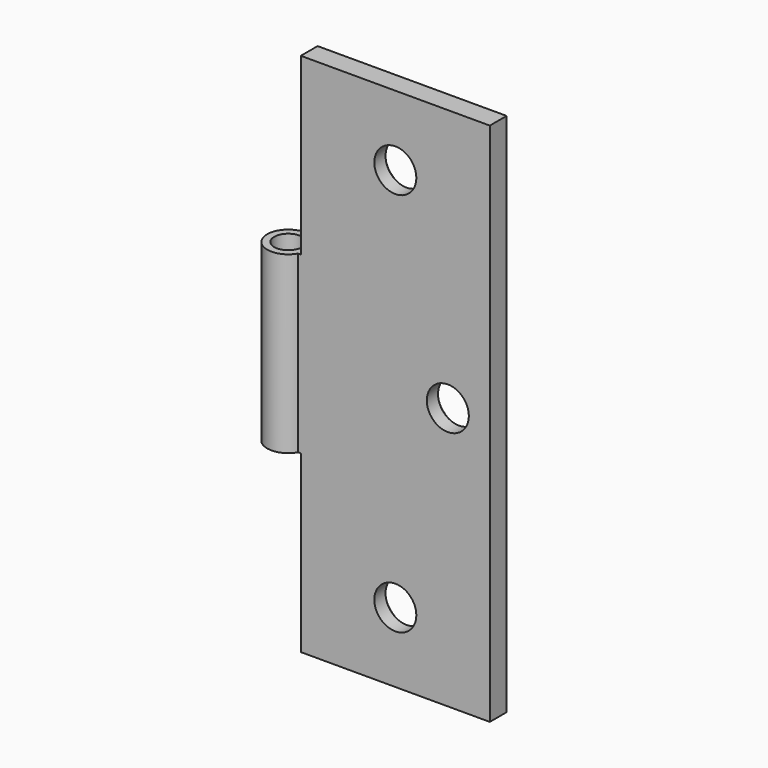
from build123d import *

# Parameters (mm, degrees)
F0_R           = 2
F1_DEPTH       = 75
F2_W           = 3
F2_H           = 25
F3_DEPTH       = 12.5
F5_D           = 6
F5_CSINK_D     = 8
F5_CSINK_ANGLE = 90


with BuildPart() as f1:
    # F0 (on Top) → F1 (new body)
    with BuildSketch(Plane.XY):
        with BuildLine():
            Line((30, 1.5), (2.5980762114, 1.5))
            ThreePointArc((2.5980762114, 1.5), (-3, 0), (2.5980762114, -1.5))
            Line((2.5980762114, -1.5), (30, -1.5))
            Line((30, -1.5), (30, 1.5))
        make_face()
        Circle(F0_R, mode=Mode.SUBTRACT)
    extrude(amount=F1_DEPTH)

    # F2 (on Front) → F3 (cut, symmetric)
    with BuildSketch(Plane.XZ):
        with Locations((-1.5, 12.5)):
            Rectangle(F2_W, F2_H)
        with Locations((1.5, 12.5)):
            Rectangle(F2_W, F2_H)
        with Locations((-1.5, 62.5)):
            Rectangle(F2_W, F2_H)
        with Locations((1.5, 62.5)):
            Rectangle(F2_W, F2_H)
    extrude(amount=F3_DEPTH, both=True, mode=Mode.SUBTRACT)

    # F5 (through all)
    with Locations(Plane(origin=(0, 1.5, 0), x_dir=(-1, 0, 0), z_dir=(0, 1, 0))):
        with Locations((-16.5, 65), (-24, 37.5), (-16.5, 10)):
            CounterSinkHole(F5_D / 2, F5_CSINK_D / 2, counter_sink_angle=F5_CSINK_ANGLE)


solid = f1.part
